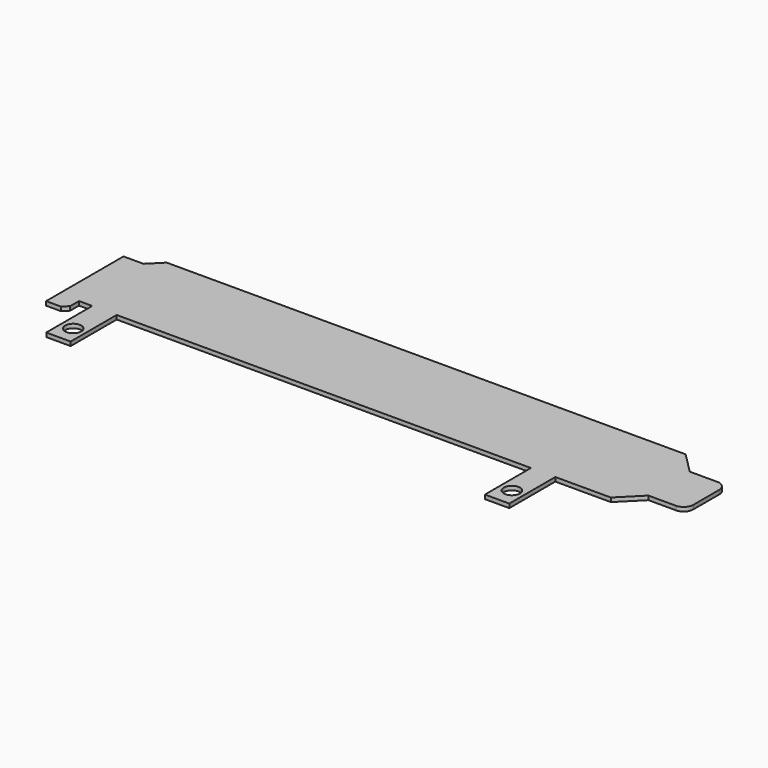
from build123d import *

# Parameters (mm, degrees)
F0_W     = 4.801906
F0_H     = 11.323674
F0_R     = 1.5875
F1_DEPTH = 0.8


with BuildPart() as f1:
    # F0 (on Top) → F1 (new body)
    with BuildSketch(Plane.XY):
        with BuildLine():
            ThreePointArc((120.0679, -6.0198), (119.509938, -4.672762), (118.1629, -4.1148))
            Line((118.1629, -4.1148), (112.7506, -4.1148))
            Line((112.7506, -4.1148), (108.6358, 0))
            Line((108.6358, 0), (6.477, 0))
            Line((6.477, 0), (3.937, -2.54))
            Line((3.937, -2.54), (0, -2.54))
            Line((0, -2.54), (0, -18.415))
            Line((0, -18.415), (0, -21.59))
            Line((0, -21.59), (2.921, -21.59))
            Line((2.921, -21.59), (3.937, -20.574))
            Line((3.937, -20.574), (3.937, -18.415))
            Line((3.937, -18.415), (6.552547, -18.415))
            Line((6.552547, -18.415), (11.354453, -18.415))
            Line((11.354453, -18.415), (92.912547, -18.415))
            Line((92.912547, -18.415), (97.714453, -18.415))
            Line((97.714453, -18.415), (108.6358, -18.415))
            Line((108.6358, -18.415), (112.7506, -14.3002))
            Line((112.7506, -14.3002), (118.1629, -14.3002))
            ThreePointArc((118.1629, -14.3002), (119.509938, -13.742238), (120.0679, -12.3952))
            Line((120.0679, -12.3952), (120.0679, -6.0198))
        make_face()
        with Locations((8.9535, -24.076837)):
            Rectangle(F0_W, F0_H)
        with Locations((8.9535, -26.0985)):
            Circle(F0_R, mode=Mode.SUBTRACT)
        with Locations((95.3135, -24.076837)):
            Rectangle(F0_W, F0_H)
        with Locations((95.3135, -26.0985)):
            Circle(F0_R, mode=Mode.SUBTRACT)
    extrude(amount=F1_DEPTH)


solid = f1.part
